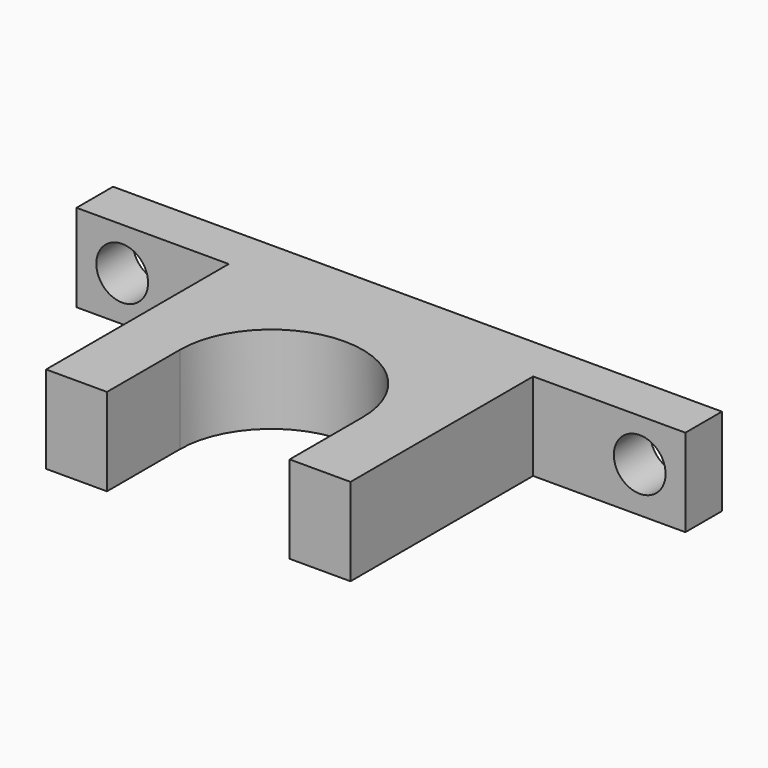
from build123d import *

# Parameters (mm, degrees)
SKETCH091_W     = 20
SKETCH091_H     = 5.75
PAD030_DEPTH    = 18
POCKET028_DEPTH = 5.751
SKETCH093_W     = 10
SKETCH093_H     = 5.755
PAD031_DEPTH    = 3
SKETCH094_R     = 1.7
HOLE018_DEPTH   = 25


with BuildPart() as part:
    # Sketch091 → Pad030 (new body)
    with BuildSketch(Plane.XZ):
        with Locations((0, 208.435)):
            Rectangle(SKETCH091_W, SKETCH091_H)
    extrude(amount=PAD030_DEPTH)

    # Sketch092 (on Face4 of Pad030) → Pocket028 (cut, through all)
    with BuildSketch(Plane(origin=(0, 0, 211.31), x_dir=(-1, 0, 0), z_dir=(0, 0, 1))):
        with BuildLine():
            ThreePointArc((-6, 12), (0, 6), (6, 12))
            Line((6, 12), (6, 22))
            Line((-6, 22), (6, 22))
            Line((-6, 22), (-6, 12))
        make_face()
    extrude(amount=-POCKET028_DEPTH, mode=Mode.SUBTRACT)

    # Sketch093 → Pad031 (join)
    with BuildSketch(Plane.XZ):
        with Locations((-15, 208.4325)):
            Rectangle(SKETCH093_W, SKETCH093_H)
        with Locations((15, 208.4325)):
            Rectangle(SKETCH093_W, SKETCH093_H)
    extrude(amount=PAD031_DEPTH)

    # Sketch094 (on Face2 of Pad031) → Hole018 (cut)
    with BuildSketch(Plane.XZ.offset(3)):
        with Locations((-17, 208.5)):
            Circle(SKETCH094_R)
        with Locations((17, 208.5)):
            Circle(SKETCH094_R)
    extrude(amount=-HOLE018_DEPTH, mode=Mode.SUBTRACT)


with BuildPart() as part_1:
    # Body013 placement: moved
    add(part.part.moved(Location((0, 132, 0))))


solid = part_1.part
